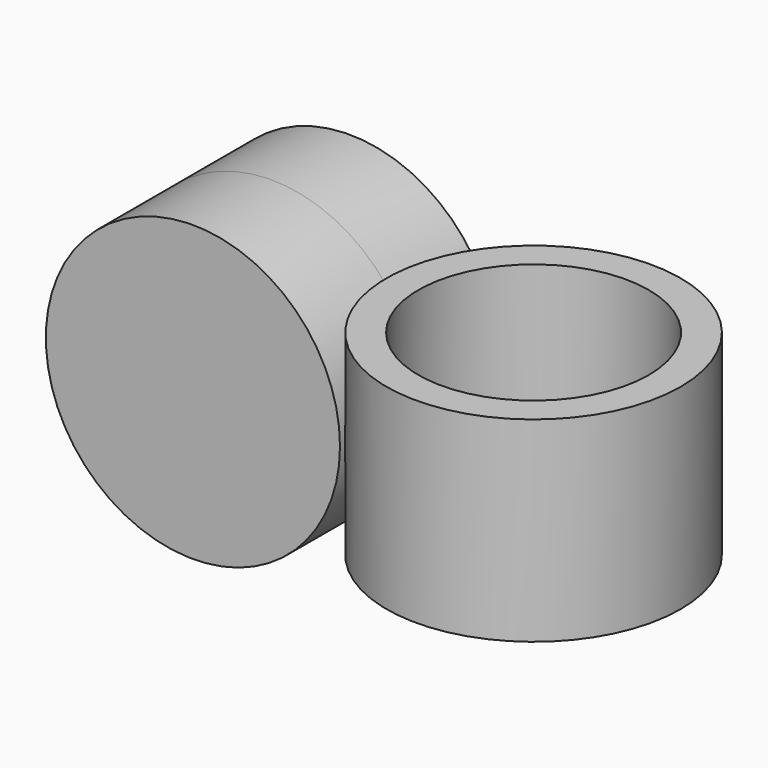
from build123d import *

# Parameters (mm, degrees)
F0_R          = 14.9987
F0_R_2        = 11.7475
F1_DEPTH      = 9.9822
F1_DEPTH_BACK = 9.9822
F2_R          = 14.9987
F2_R_2        = 11.7475
F3_DEPTH      = 9.9822
F3_DEPTH_BACK = 9.9822


with BuildPart() as f1:
    # F0 (on Top) → F1 (new body, two sides)
    with BuildSketch(Plane.XY) as f1_sk:
        Circle(F0_R)
        Circle(F0_R_2, mode=Mode.SUBTRACT)
    extrude(amount=F1_DEPTH)
    extrude(f1_sk.sketch, amount=-F1_DEPTH_BACK)

    # F2 (on Front) → F3 (join, two sides)
    with BuildSketch(Plane.XZ) as f3_sk:
        with Locations((-26.75384, 0)):
            Circle(F2_R)
        with Locations((-26.75384, 0)):
            Circle(F2_R_2, mode=Mode.SUBTRACT)
        with Locations((-26.75384, 0)):
            Circle(F2_R_2)
    extrude(amount=F3_DEPTH)
    extrude(f3_sk.sketch, amount=-F3_DEPTH_BACK)


solid = f1.part
